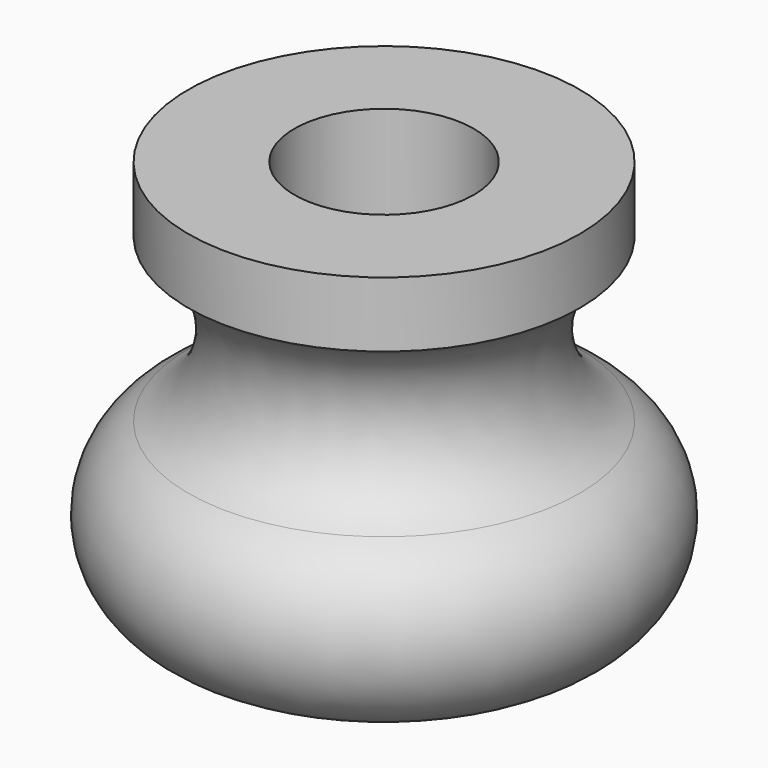
from build123d import *


with BuildPart() as f1:
    # F0 (on Front) → F1 (revolve)
    with BuildSketch(Plane.XZ):
        with BuildLine():
            Line((0, 1), (0, 0))
            Line((0, 0), (6, 0))
            ThreePointArc((6, 0), (7.5, 2.5), (6, 5))
            ThreePointArc((6, 5), (4.5, 7.5), (6, 10))
            Line((6, 10), (6, 12))
            Line((6, 12), (2.75, 12))
            Line((2.75, 12), (2.75, 1))
            Line((2.75, 1), (0, 1))
        make_face()
    revolve(axis=Axis((0, 0, 0.5), (0, 0, -1)))


solid = f1.part
